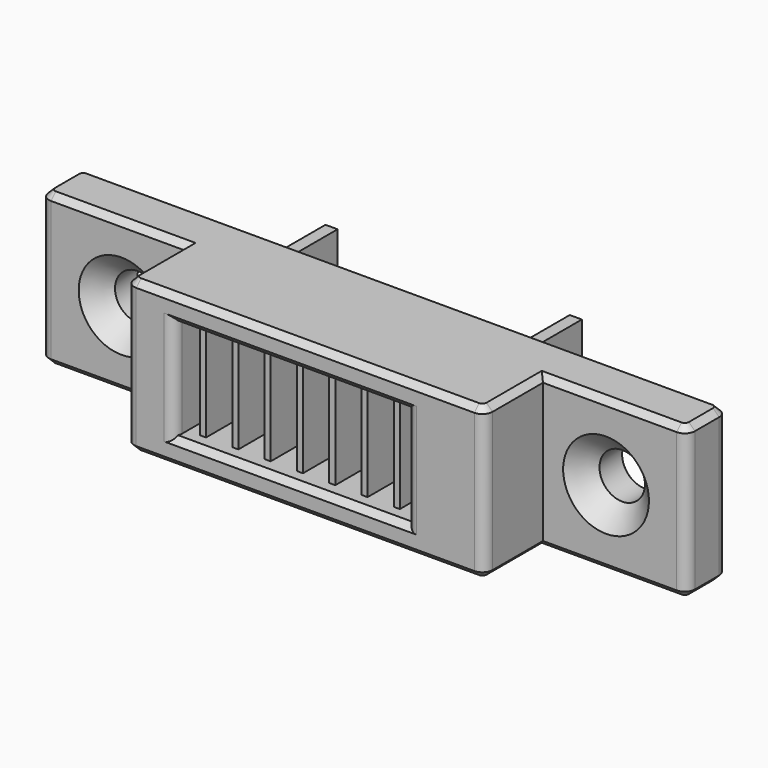
from build123d import *

# Parameters (mm, degrees)
PAD_DEPTH           = 7.5
SKETCH001_R         = 2.25
POCKET_DEPTH        = 5
POCKET001_DEPTH     = 12.251
SKETCH003_W         = 1.2
SKETCH003_H         = 10
PAD001_DEPTH        = 8
SKETCH004_W         = 25
SKETCH004_H         = 7.8
PAD002_DEPTH        = 2.3
CHAMFER_SIZE        = 0.2
FILLET_R            = 1
CHAMFER001_SIZE     = 0.6
CHAMFER002_SIZE     = 2
SKETCH005_W         = 0.6
SKETCH005_H         = 9.844886
PAD003_DEPTH        = 9.6
LINEARPATTERN_COUNT = 7
LINEARPATTERN_PITCH = 3.2


with BuildPart() as part:
    # Sketch (on Origin) → Pad (new body, symmetric)
    with BuildSketch(Plane.XY):
        Polygon((-32, 5), (32, 5), (32, 0), (17.75, 0), (17.75, -7.25), (-17.75, -7.25), (-17.75, 0), (-32, 0), align=None)
    extrude(amount=PAD_DEPTH, both=True)

    # Sketch001 (on Face7 of Pad) → Pocket (cut)
    with BuildSketch(Plane.XZ):
        with Locations((-24, 0)):
            Circle(SKETCH001_R)
        with Locations((24, 0)):
            Circle(SKETCH001_R)
    extrude(amount=-POCKET_DEPTH, mode=Mode.SUBTRACT)

    # Sketch002 (on Face11 of Pocket) → Pocket001 (cut, through all)
    with BuildSketch(Plane.XZ.offset(7.25)):
        Polygon((-10, -5), (10, -5), (10, 5), (-10, 5), (-13, 5), (-13, -5), align=None)
    extrude(amount=-POCKET001_DEPTH, mode=Mode.SUBTRACT)

    # Sketch003 (on Face1 of Pocket001) → Pad001 (join)
    with BuildSketch(Plane(origin=(0, 5, 0), x_dir=(-1, 0, 0), z_dir=(0, 1, 0))):
        with Locations((13.6, 0)):
            Rectangle(SKETCH003_W, SKETCH003_H)
        with Locations((-10.6, 0)):
            Rectangle(SKETCH003_W, SKETCH003_H)
    extrude(amount=PAD001_DEPTH)

    # Sketch004 (on Face12 of Pad001) → Pad002 (join)
    with BuildSketch(Plane(origin=(0, 0, -5.2), x_dir=(1, 0, 0), z_dir=(0, 0, -1))):
        with Locations((-1.5, -9.1)):
            Rectangle(SKETCH004_W, SKETCH004_H)
    extrude(amount=PAD002_DEPTH)

    # Chamfer
    chamfer_edges = [part.edges().sort_by_distance(p)[0] for p in [
        (-26.25, 5, 0),
        (21.75, 5, 0),
    ]]
    chamfer(chamfer_edges, length=CHAMFER_SIZE)

    # Fillet
    fillet_edges = [part.edges().sort_by_distance(p)[0] for p in [
        (-14, 13, -6.35),
        (-32, 5, 0),
        (-32, 0, 0),
        (-17.75, -7.25, 0),
        (32, 5, 0),
        (32, 0, 0),
        (17.75, -7.25, 0),
        (11, 13, -6.35),
        (10, -7.25, 0),
        (-13, -7.25, 0),
    ]]
    fillet(fillet_edges, radius=FILLET_R)

    # Chamfer001
    chamfer001_edges = [part.edges().sort_by_distance(p)[0] for p in [
        (0, 5, -7.5),
        (-31.707107, 4.707107, -7.5),
        (31.707107, 4.707107, -7.5),
        (-32, 2.5, -7.5),
        (32, 2.5, -7.5),
        (-31.707107, 0.292893, -7.5),
        (31.707107, 0.292893, -7.5),
        (-24.375, 0, -7.5),
        (24.375, 0, -7.5),
        (-17.75, -3.125, -7.5),
        (17.75, -3.125, -7.5),
        (-17.457107, -6.957107, -7.5),
        (17.457107, -6.957107, -7.5),
        (0, -7.25, -7.5),
        (-1.5, -7.25, 5),
        (-1.5, -7.25, -5),
        (0, 5, 7.5),
        (-31.707107, 4.707107, 7.5),
        (31.707107, 4.707107, 7.5),
        (-32, 2.5, 7.5),
        (32, 2.5, 7.5),
        (-31.707107, 0.292893, 7.5),
        (31.707107, 0.292893, 7.5),
        (-24.375, 0, 7.5),
        (24.375, 0, 7.5),
        (-17.75, -3.125, 7.5),
        (17.75, -3.125, 7.5),
        (-17.457107, -6.957107, 7.5),
        (17.457107, -6.957107, 7.5),
        (0, -7.25, 7.5),
    ]]
    chamfer(chamfer001_edges, length=CHAMFER001_SIZE)

    # Chamfer002
    chamfer002_edges = [part.edges().sort_by_distance(p)[0] for p in [
        (-26.25, 0, 0),
        (21.75, 0, 0),
    ]]
    chamfer(chamfer002_edges, length=CHAMFER002_SIZE)

    # Sketch005 (on Face17 of Chamfer002) → Pad003 (join)
    with BuildSketch(Plane.XY.offset(-4.8)):
        with Locations((-11.210888, -0.976001)):
            Rectangle(SKETCH005_W, SKETCH005_H)
    pad003 = extrude(amount=PAD003_DEPTH)

    # LinearPattern: Pad003 ×7
    with Locations(*[(i * LINEARPATTERN_PITCH, 0, 0) for i in range(1, LINEARPATTERN_COUNT)]):
        add(pad003)


solid = part.part
